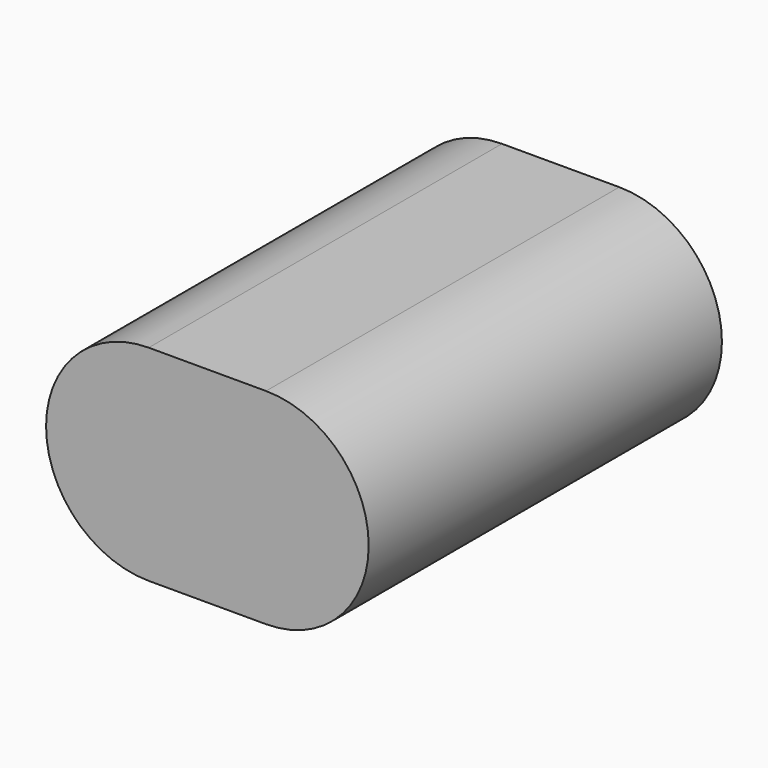
from build123d import *

# Parameters (mm, degrees)
F1_DEPTH = 762
F3_DEPTH = 762
F5_DEPTH = 2.778125


with BuildPart() as f1:
    # F0 (on Front) → F1 (new body)
    with BuildSketch(Plane.XZ):
        with BuildLine():
            Line((203.2, 355.6), (-203.2, 355.6))
            ThreePointArc((-203.2, 355.6), (-558.8, 0), (-203.2, -355.6))
            Line((-203.2, -355.6), (203.2, -355.6))
            ThreePointArc((203.2, -355.6), (558.8, 0), (203.2, 355.6))
        make_face()
    extrude(amount=F1_DEPTH)

    # F2 (on face) → F3 (cut, through all)
    with BuildSketch(Plane.XZ.offset(762)):
        with BuildLine():
            ThreePointArc((203.2, -352.821875), (556.021875, 0), (203.2, 352.821875))
            Line((203.2, 352.821875), (-203.2, 352.821875))
            ThreePointArc((-203.2, 352.821875), (-556.021875, 0), (-203.2, -352.821875))
            Line((-203.2, -352.821875), (203.2, -352.821875))
        make_face()
    extrude(amount=-F3_DEPTH, mode=Mode.SUBTRACT)

    # F4 (on face) → F5 (join)
    with BuildSketch(Plane.XZ.offset(762)):
        with BuildLine():
            ThreePointArc((-203.2, 355.6), (-558.8, 0), (-203.2, -355.6))
            Line((-203.2, -355.6), (203.2, -355.6))
            ThreePointArc((203.2, -355.6), (558.8, 0), (203.2, 355.6))
            Line((203.2, 355.6), (-203.2, 355.6))
        make_face()
        with BuildLine():
            ThreePointArc((203.2, 352.821875), (556.021875, 0), (203.2, -352.821875))
            Line((203.2, -352.821875), (-203.2, -352.821875))
            ThreePointArc((-203.2, -352.821875), (-556.021875, 0), (-203.2, 352.821875))
            Line((-203.2, 352.821875), (203.2, 352.821875))
        make_face(mode=Mode.SUBTRACT)
        with BuildLine():
            Line((-203.2, -352.821875), (203.2, -352.821875))
            ThreePointArc((203.2, -352.821875), (556.021875, 0), (203.2, 352.821875))
            Line((203.2, 352.821875), (-203.2, 352.821875))
            ThreePointArc((-203.2, 352.821875), (-556.021875, 0), (-203.2, -352.821875))
        make_face()
    extrude(amount=F5_DEPTH)

    # F6: F1 across plane


with BuildPart() as f1_1:
    add(f1.part)
    add(f1.part.mirror(Plane.XZ))


solid = f1_1.part
